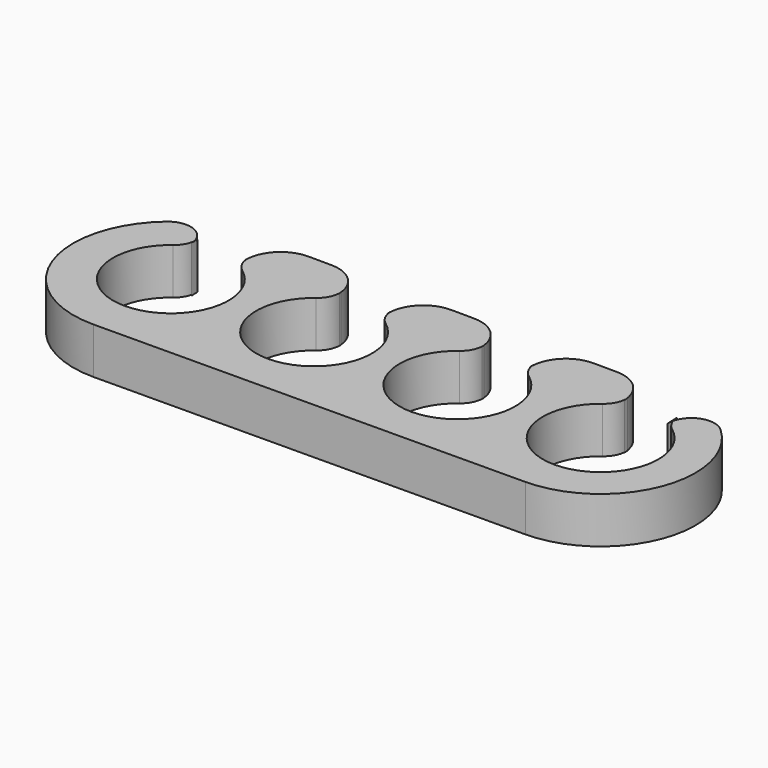
from build123d import *

# Parameters (mm, degrees)
F1_DEPTH = 2


with BuildPart() as f1:
    # F0 (on Top) → F1 (new body)
    with BuildSketch(Plane.XY):
        with BuildLine():
            ThreePointArc((-20.7565734159, 2.6450559883), (-20.7575227142, 2.6803675531), (-20.7576402354, 2.7156916802))
            ThreePointArc((-20.7576402354, 2.7156916802), (-20.7600003801, 2.7444381453), (-20.7615304896, 2.7732407199))
            Line((-20.7615304896, 2.7732407199), (-20.7565734159, 2.6450559883))
        make_face()
    extrude(amount=F1_DEPTH)


with BuildPart() as f1b:
    # F0 (on Top) → F1, piece 2 (new body)
    with BuildSketch(Plane.XY):
        with BuildLine():
            ThreePointArc((-16.7558578866, 2.8320419808), (-16.7553359551, 2.8146099746), (-16.7551181024, 2.7971715173))
            ThreePointArc((-16.7551181024, 2.7971715173), (-16.7538370868, 2.7758509096), (-16.7528597854, 2.7545142229))
            Line((-16.7528597854, 2.7545142229), (-16.7558578866, 2.8320419808))
        make_face()
    extrude(amount=F1_DEPTH)


with BuildPart() as f1c:
    # F0 (on Top) → F1, piece 3 (new body)
    with BuildSketch(Plane.XY):
        with BuildLine():
            ThreePointArc((-14.5550311684, 2.6051750824), (-14.5561062892, 2.6514906978), (-14.5557505918, 2.6978174244))
            ThreePointArc((-14.5557505918, 2.6978174244), (-14.559353965, 2.7354744005), (-14.5615304896, 2.7732407199))
            Line((-14.5615304896, 2.7732407199), (-14.5550311684, 2.6051750824))
        make_face()
    extrude(amount=F1_DEPTH)


with BuildPart() as f1d:
    # F0 (on Top) → F1, piece 4 (new body)
    with BuildSketch(Plane.XY):
        with BuildLine():
            ThreePointArc((-10.5558578866, 2.8320419808), (-10.5551858321, 2.8056339835), (-10.5552115594, 2.7792174485))
            ThreePointArc((-10.5552115594, 2.7792174485), (-10.5529162844, 2.7469463809), (-10.5513175378, 2.714633317))
            Line((-10.5513175378, 2.714633317), (-10.5558578866, 2.8320419808))
        make_face()
    extrude(amount=F1_DEPTH)


with BuildPart() as f1e:
    # F0 (on Top) → F1, piece 5 (new body)
    with BuildSketch(Plane.XY):
        with BuildLine():
            ThreePointArc((-8.3534889208, 2.5652941765), (-8.354609135, 2.6226261597), (-8.3535372087, 2.6799590661))
            ThreePointArc((-8.3535372087, 2.6799590661), (-8.3586261172, 2.7265062968), (-8.3615304896, 2.7732407199))
            Line((-8.3615304896, 2.7732407199), (-8.3534889208, 2.5652941765))
        make_face()
    extrude(amount=F1_DEPTH)


with BuildPart() as f1f:
    # F0 (on Top) → F1, piece 6 (new body)
    with BuildSketch(Plane.XY):
        with BuildLine():
            ThreePointArc((-4.3558578866, 2.8320419808), (-4.3551162701, 2.7966496504), (-4.3556278141, 2.761253247))
            ThreePointArc((-4.3556278141, 2.761253247), (-4.3520764632, 2.7180451217), (-4.3497752903, 2.6747524111))
            Line((-4.3497752903, 2.6747524111), (-4.3558578866, 2.8320419808))
        make_face()
    extrude(amount=F1_DEPTH)


with BuildPart() as f1g:
    # F0 (on Top) → F1, piece 7 (new body)
    with BuildSketch(Plane.XY):
        with BuildLine():
            ThreePointArc((-2.1408045699, 2.2372901502), (-2.136841227, 2.3728774013), (-2.1145649399, 2.5066809058))
            ThreePointArc((-2.1145649399, 2.5066809058), (-2.1471079644, 2.6383644747), (-2.1615304896, 2.7732407199))
            Line((-2.1615304896, 2.7732407199), (-2.1408045699, 2.2372901502))
        make_face()
    extrude(amount=F1_DEPTH)


with BuildPart() as f1h:
    # F0 (on Top) → F1, piece 8 (new body)
    with BuildSketch(Plane.XY):
        with BuildLine():
            ThreePointArc((-22.9558578866, 2.8320419808), (-22.9563152593, 2.7443374212), (-22.9644556672, 2.6570102621))
            ThreePointArc((-22.9644556672, 2.6570102621), (-22.9495955417, 2.570572564), (-22.9423663607, 2.4831652536))
            Line((-22.9423663607, 2.4831652536), (-22.9558578866, 2.8320419808))
        make_face()
    extrude(amount=F1_DEPTH)


with BuildPart() as f1i:
    # F0 (on Top) → F1, piece 9 (new body)
    with BuildSketch(Plane.XY):
        with BuildLine():
            ThreePointArc((-20.3577235813, 2.0084879738), (-21.8353182092, -2.499975708), (-23.3526047247, 1.9952853839))
            ThreePointArc((-23.3526047247, 1.9952853839), (-23.0925503167, 2.2874458959), (-22.9644556672, 2.6570102621))
            ThreePointArc((-22.9644556672, 2.6570102621), (-23.6232319071, 3.3924834447), (-24.5924063832, 3.2037832292))
            ThreePointArc((-24.5924063832, 3.2037832292), (-25.7991251808, -1.4766836558), (-21.8192041361, -4.219523242))
            Line((-21.8192041361, -4.219523242), (-3.2199733119, -4.0999152244))
            ThreePointArc((-3.2199733119, -4.0999152244), (0.5762627025, -1.4824694686), (-0.462587727, 3.010104398))
            ThreePointArc((-0.462587727, 3.010104398), (-1.4330563808, 3.232501925), (-2.1145649399, 2.5066809058))
            ThreePointArc((-2.1145649399, 2.5066809058), (-1.9752466284, 2.2295765313), (-1.7577235813, 2.0084879738))
            ThreePointArc((-1.7577235813, 2.0084879738), (-3.2353182092, -2.499975708), (-4.7526047247, 1.9952853839))
            ThreePointArc((-4.7526047247, 1.9952853839), (-4.4672657138, 2.3332574201), (-4.3556278141, 2.761253247))
            ThreePointArc((-4.3556278141, 2.761253247), (-4.8367978682, 3.724103182), (-5.8390089357, 4.1167577305))
            Line((-5.8390089357, 4.1167577305), (-6.8449632607, 4.1232268261))
            ThreePointArc((-6.8449632607, 4.1232268261), (-7.8915497803, 3.7071187063), (-8.3535372087, 2.6799590661))
            ThreePointArc((-8.3535372087, 2.6799590661), (-8.2237455247, 2.3040715359), (-7.9577235813, 2.0084879738))
            ThreePointArc((-7.9577235813, 2.0084879738), (-9.4353182092, -2.499975708), (-10.9526047247, 1.9952853839))
            ThreePointArc((-10.9526047247, 1.9952853839), (-10.6631673963, 2.3412528484), (-10.5552115594, 2.7792174485))
            ThreePointArc((-10.5552115594, 2.7792174485), (-11.0302455377, 3.7565326551), (-12.0405511833, 4.1566386364))
            Line((-12.0405511833, 4.1566386364), (-13.0465055083, 4.1631077321))
            ThreePointArc((-13.0465055083, 4.1631077321), (-14.1010242152, 3.7393548233), (-14.5557505918, 2.6978174244))
            ThreePointArc((-14.5557505918, 2.6978174244), (-14.4282796891, 2.3118431509), (-14.1577235813, 2.0084879738))
            ThreePointArc((-14.1577235813, 2.0084879738), (-15.6353182092, -2.499975708), (-17.1526047247, 1.9952853839))
            ThreePointArc((-17.1526047247, 1.9952853839), (-16.8591443462, 2.3492781847), (-16.7551181024, 2.7971715173))
            ThreePointArc((-16.7551181024, 2.7971715173), (-17.2237540049, 3.7889085344), (-18.2420934308, 4.1965195424))
            Line((-18.2420934308, 4.1965195424), (-19.2480477558, 4.202988638))
            ThreePointArc((-19.2480477558, 4.202988638), (-20.3104339633, 3.7715410949), (-20.7576402354, 2.7156916802))
            ThreePointArc((-20.7576402354, 2.7156916802), (-20.6327385426, 2.3196460478), (-20.3577235813, 2.0084879738))
        make_face()
    extrude(amount=F1_DEPTH)


solid = Compound([f1.part, f1b.part, f1c.part, f1d.part, f1e.part, f1f.part, f1g.part, f1h.part, f1i.part])
